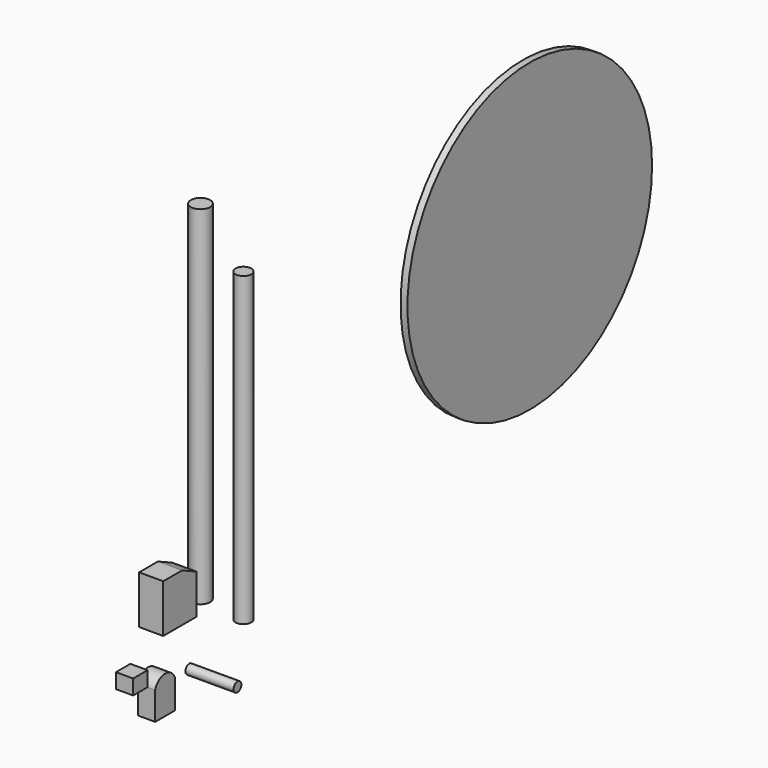
from build123d import *

# Parameters (mm, degrees)
F0_R      = 14
F1_DEPTH  = 505
F2_R      = 11.5
F3_DEPTH  = 445
F4_W      = 35
F4_H      = 60
F5_DEPTH  = 70
F6_SIZE2  = 26
F6_SIZE   = 12
F7_R      = 7
F8_DEPTH  = 70
F11_DEPTH = 25
F10_W     = 26.167509
F10_H     = 21.742089
F12_DEPTH = 25
F13_R     = 222
F14_DEPTH = 10


with BuildPart() as f1:
    # F0 (on Top) → F1 (new body)
    with BuildSketch(Plane.XY):
        with Locations((-37.904397, 29.823253)):
            Circle(F0_R)
    extrude(amount=F1_DEPTH)


with BuildPart() as f3:
    # F2 (on Top) → F3 (new body)
    with BuildSketch(Plane.XY):
        with Locations((32.132167, 20.202847)):
            Circle(F2_R)
    extrude(amount=F3_DEPTH)


with BuildPart() as f5:
    # F4 (on Top) → F5 (new body)
    with BuildSketch(Plane.XY):
        with Locations((-31.072771, -38.224626)):
            Rectangle(F4_W, F4_H)
    extrude(amount=F5_DEPTH)

    # F6
    f6_edges = [f5.edges().sort_by_distance(p)[0] for p in [
        (-31.072771, -8.224626, 70),
    ]]
    chamfer(f6_edges, length=F6_SIZE, length2=F6_SIZE2)


with BuildPart() as f8:
    # F7 (on Right) → F8 (new body)
    with BuildSketch(Plane.YZ):
        with Locations((-37.9044, -50.218493)):
            Circle(F7_R)
    extrude(amount=F8_DEPTH)


with BuildPart() as f11:
    # F9 (on Right) → F11 (new body)
    with BuildSketch(Plane.YZ):
        with BuildLine():
            Line((-131.029932, -30.977678), (-131.029932, -71.768202))
            Line((-131.029932, -71.768202), (-94.857205, -71.768202))
            Line((-94.857205, -71.768202), (-94.857205, -30.977678))
            ThreePointArc((-94.857205, -30.977678), (-112.943568, -17.313983), (-131.029932, -30.977678))
        make_face()
    extrude(amount=F11_DEPTH)


with BuildPart() as f12:
    # F10 (on Right) → F12 (new body)
    with BuildSketch(Plane.YZ):
        with Locations((-157.967079, -10.871044)):
            Rectangle(F10_W, F10_H)
    extrude(amount=F12_DEPTH)


with BuildPart() as f14:
    # F13 (on Right) → F14 (new body)
    with BuildSketch(Plane.YZ):
        with Locations((567.607284, 260.377318)):
            Circle(F13_R)
    extrude(amount=F14_DEPTH)


solid = Compound([f1.part, f3.part, f5.part, f8.part, f11.part, f12.part, f14.part])
